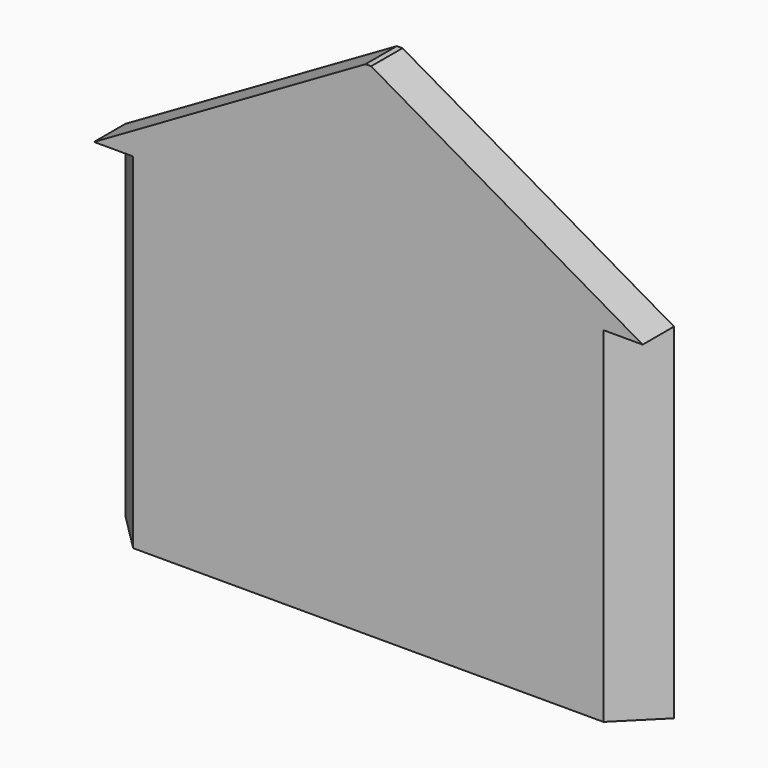
from build123d import *

# Parameters (mm, degrees)
F0_W     = 3500
F0_H     = 2200
F1_DEPTH = 250
F3_DEPTH = 2200.001
F4_W     = 3500
F4_H     = 250
F5_DEPTH = 1000
F7_DEPTH = 250.001


with BuildPart() as f1:
    # F0 (on Front) → F1 (new body)
    with BuildSketch(Plane.XZ):
        with Locations((1750, 1100)):
            Rectangle(F0_W, F0_H)
    extrude(amount=F1_DEPTH)

    # F2 (on face) → F3 (cut, through all)
    with BuildSketch(Plane.XY.offset(2200)):
        Polygon((250, -250), (0, 0), (0, -250), align=None)
        Polygon((3250, -250), (3500, -250), (3500, 0), align=None)
    extrude(amount=-F3_DEPTH, mode=Mode.SUBTRACT)

    # F4 (on face) → F5 (join)
    with BuildSketch(Plane.XY.offset(2200)):
        with Locations((1750, -125)):
            Rectangle(F4_W, F4_H)
    extrude(amount=F5_DEPTH)

    # F6 (on face) → F7 (cut, through all)
    with BuildSketch(Plane.XZ.offset(250)):
        Polygon((0, 3200), (0, 2200), (1732.050808, 3200), align=None)
        Polygon((3500, 3200), (1767.949192, 3200), (3500, 2200), align=None)
        Polygon((1750, 3210.362971), (1732.050808, 3200), (1767.949192, 3200), align=None)
    extrude(amount=-F7_DEPTH, mode=Mode.SUBTRACT)


solid = f1.part
